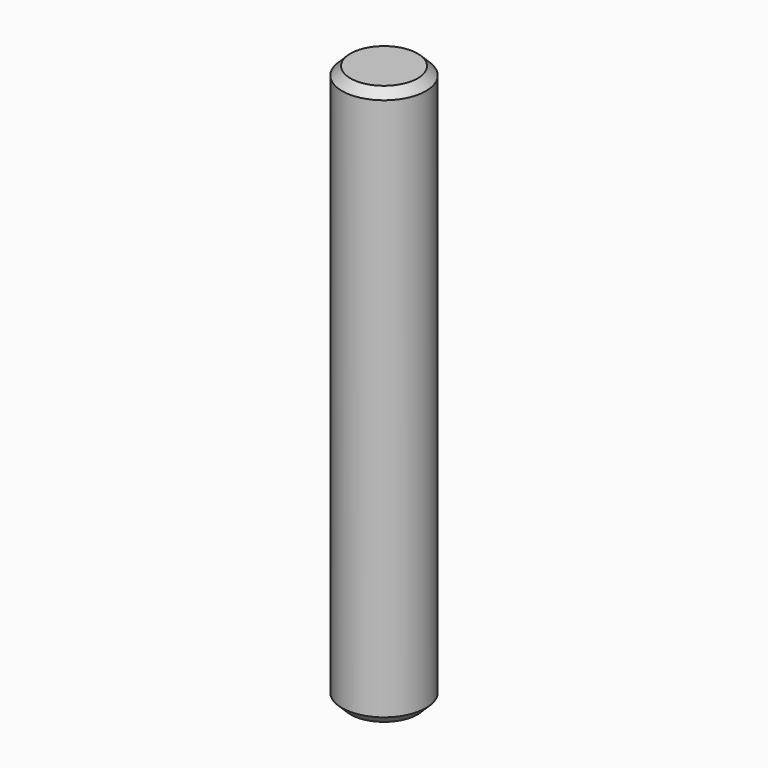
from build123d import *

# Parameters (mm, degrees)
SKETCH_R     = 1.5
PAD_DEPTH    = 20
CHAMFER_SIZE = 0.3


with BuildPart() as part:
    # Sketch → Pad (new body)
    with BuildSketch(Plane.XY):
        Circle(SKETCH_R)
    extrude(amount=PAD_DEPTH)

    # Chamfer
    chamfer_edges = [part.edges().sort_by_distance(p)[0] for p in [
        (-1.5, 0, 20),
        (-1.5, 0, 0),
    ]]
    chamfer(chamfer_edges, length=CHAMFER_SIZE)


solid = part.part
